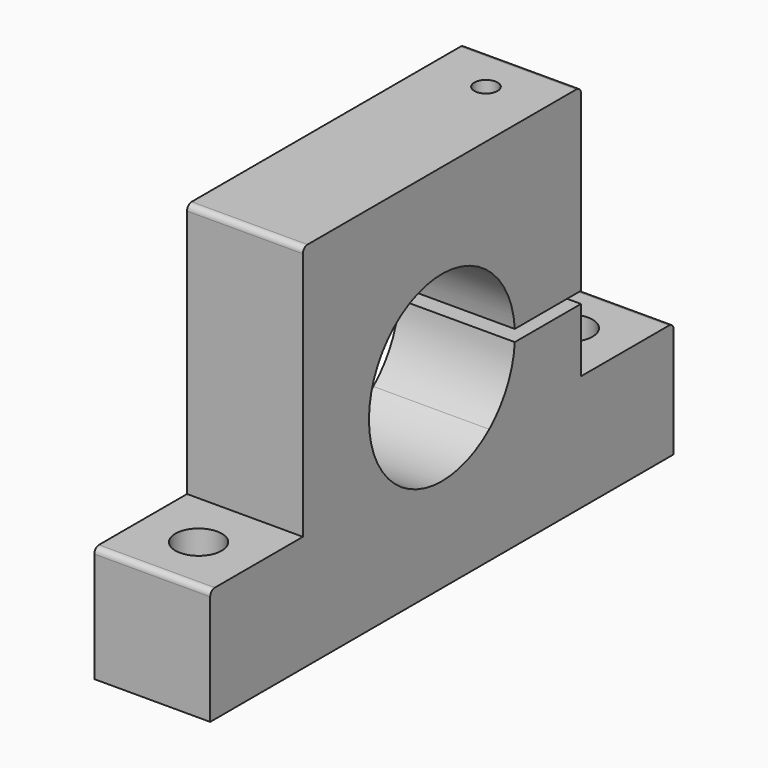
from build123d import *

# Parameters (mm, degrees)
F1_DEPTH      = 5
F1_DEPTH_BACK = 5
F2_R          = 1
F3_DEPTH      = 32.001
F4_W          = 10
F4_H          = 50
F4_R          = 2
F5_DEPTH      = 10
F6_R          = 7.875
F7_DEPTH      = 10.001
F8_R          = 0.5


with BuildPart() as f1:
    # F0 (on Right) → F1 (new body, two sides)
    with BuildSketch(Plane.YZ) as f1_sk:
        with BuildLine():
            Line((15, 0.5), (15, 16))
            Line((15, 16), (-15, 16))
            Line((-15, 16), (-15, -16))
            Line((-15, -16), (15, -16))
            Line((15, -16), (15, -0.5))
            Line((15, -0.5), (7.859111, -0.5))
            ThreePointArc((7.859111, -0.5), (-7.875, 0), (7.859111, 0.5))
            Line((7.859111, 0.5), (15, 0.5))
        make_face()
    extrude(amount=F1_DEPTH)
    extrude(f1_sk.sketch, amount=-F1_DEPTH_BACK)

    # F2 (on face) → F3 (cut, through all)
    with BuildSketch(Plane.XY.offset(16)):
        with Locations((0, 11)):
            Circle(F2_R)
    extrude(amount=-F3_DEPTH, mode=Mode.SUBTRACT)

    # F4 (on face) → F5 (join)
    with BuildSketch(Plane(origin=(0, 0, -16), x_dir=(1, 0, 0), z_dir=(0, 0, -1))):
        Rectangle(F4_W, F4_H)
        with Locations((0, -20)):
            Circle(F4_R, mode=Mode.SUBTRACT)
        with Locations((0, 20)):
            Circle(F4_R, mode=Mode.SUBTRACT)
    extrude(amount=-F5_DEPTH)

    # F6 (on face) → F7 (cut, through all)
    with BuildSketch(Plane.YZ.offset(5)):
        Circle(F6_R)
    extrude(amount=-F7_DEPTH, mode=Mode.SUBTRACT)

    # F8
    f8_edges = [f1.edges().sort_by_distance(p)[0] for p in [
        (0, -15, 16),
        (0, 15, 16),
        (0, -25, -6),
        (0, 25, -6),
    ]]
    fillet(f8_edges, radius=F8_R)


solid = f1.part
